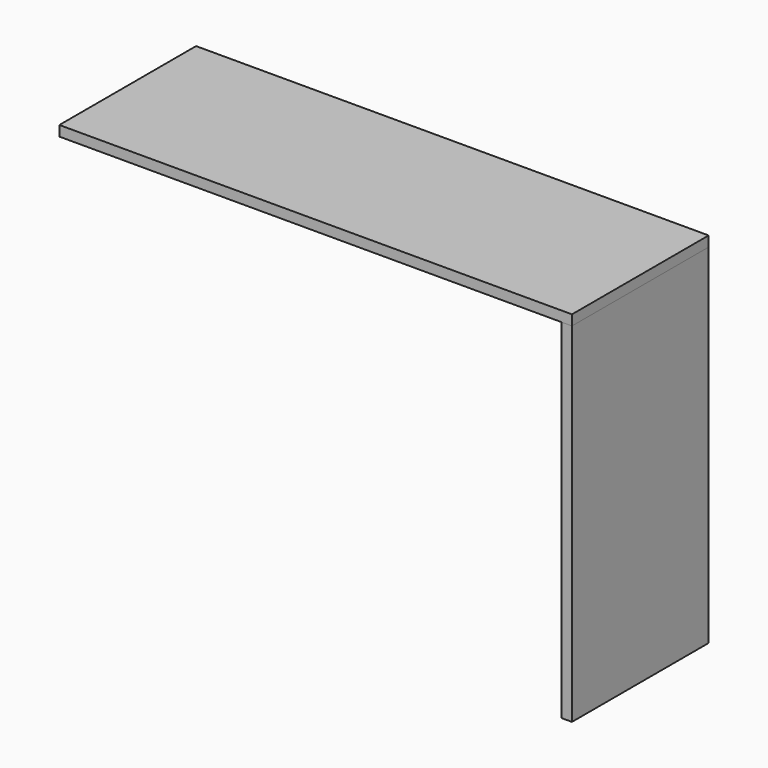
from build123d import *

# Parameters (mm, degrees)
F0_W     = 1500
F0_H     = 500
F1_DEPTH = 30
F2_W     = 500
F2_H     = 1020
F3_DEPTH = 30


with BuildPart() as f1:
    # F0 (on Top) → F1 (new body)
    with BuildSketch(Plane.XY):
        Rectangle(F0_W, F0_H)
    extrude(amount=F1_DEPTH)


with BuildPart() as f3:
    # F2 (on face) → F3 (new body)
    with BuildSketch(Plane.YZ.offset(750)):
        with Locations((0, -510)):
            Rectangle(F2_W, F2_H)
    extrude(amount=-F3_DEPTH)


solid = Compound([f1.part, f3.part])
